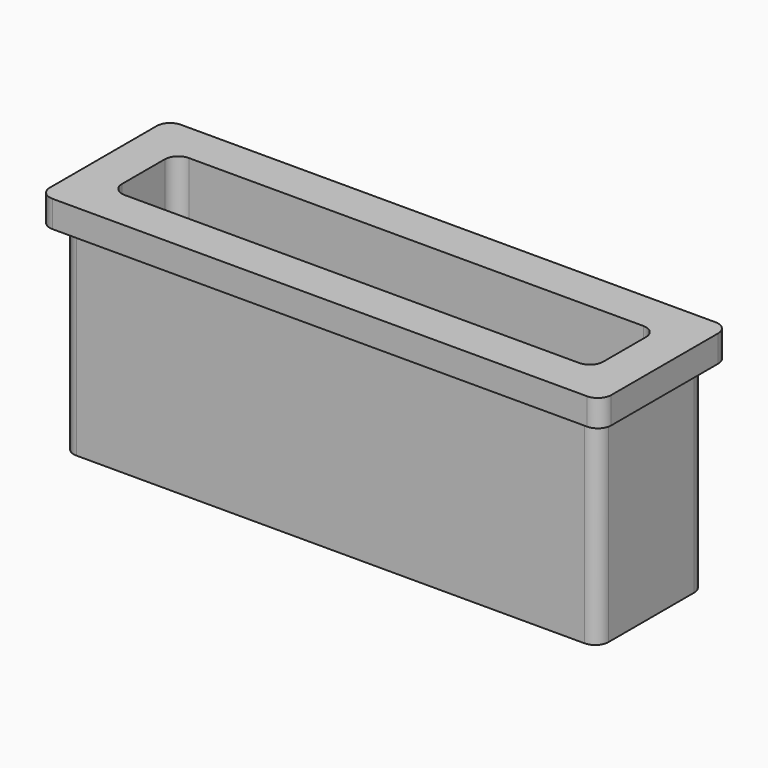
from build123d import *

# Parameters (mm, degrees)
F0_W     = 40
F0_H     = 10
F0_W_2   = 36
F0_H_2   = 6
F1_DEPTH = 15
F2_W     = 42
F2_H     = 12
F2_W_2   = 40
F2_H_2   = 10
F2_W_3   = 36
F2_H_3   = 6
F3_DEPTH = 2
F4_R     = 1


with BuildPart() as f1:
    # F0 (on Top) → F1 (new body)
    with BuildSketch(Plane.XY):
        Rectangle(F0_W, F0_H)
        Rectangle(F0_W_2, F0_H_2, mode=Mode.SUBTRACT)
    extrude(amount=-F1_DEPTH)

    # F2 (on face) → F3 (join)
    with BuildSketch(Plane.XY):
        Rectangle(F2_W, F2_H)
        Rectangle(F2_W_2, F2_H_2, mode=Mode.SUBTRACT)
        Rectangle(F2_W_2, F2_H_2)
        Rectangle(F2_W_3, F2_H_3, mode=Mode.SUBTRACT)
    extrude(amount=F3_DEPTH)

    # F4
    f4_edges = [f1.edges().sort_by_distance(p)[0] for p in [
        (21, 6, 1),
        (21, -6, 1),
        (-21, 6, 1),
        (-21, -6, 1),
        (20, 5, -7.5),
        (20, -5, -7.5),
        (-20, -5, -7.5),
        (-20, 5, -7.5),
        (18, 3, -6.5),
        (-18, 3, -6.5),
        (-18, -3, -6.5),
        (18, -3, -6.5),
    ]]
    fillet(f4_edges, radius=F4_R)


solid = f1.part
